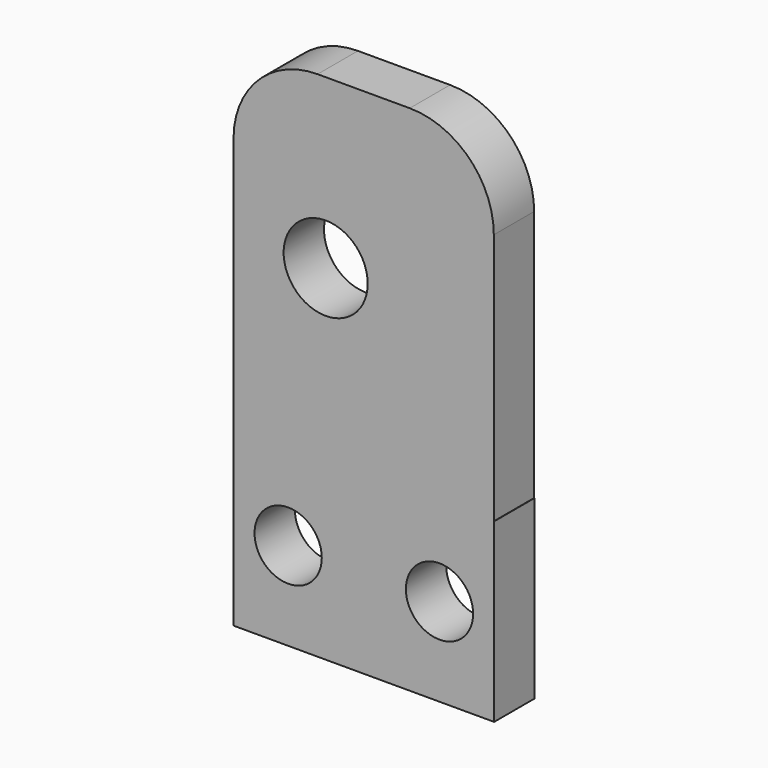
from build123d import *

# Parameters (mm, degrees)
F0_W     = 0.018924
F0_H     = 10.5
F0_R     = 2
F0_R_2   = 2.5
F1_DEPTH = 3


with BuildPart() as f1:
    # F0 (on Front) → F1 (new body)
    with BuildSketch(Plane.XZ):
        with Locations((-26.705362, 43.103301)):
            Rectangle(F0_W, F0_H)
        with BuildLine():
            Line((-26.714824, 37.853301), (-26.714824, 48.353301))
            Line((-26.714824, 48.353301), (-36.544182, 48.353301))
            ThreePointArc((-36.544182, 48.353301), (-40.513356, 46.970414), (-42.1959, 43.118692))
            Line((-42.1959, 43.118692), (-42.1959, 37.853301))
            Line((-42.1959, 37.853301), (-26.714824, 37.853301))
        make_face()
        with Locations((-38.9459, 43.103301)):
            Circle(F0_R, mode=Mode.SUBTRACT)
        with Locations((-29.9459, 43.103301)):
            Circle(F0_R, mode=Mode.SUBTRACT)
        with BuildLine():
            Line((-36.544182, 48.353301), (-26.714824, 48.353301))
            Line((-26.714824, 48.353301), (-26.714824, 63.353301))
            ThreePointArc((-26.714824, 63.353301), (-28.17929, 66.888834), (-31.714824, 68.353301))
            Line((-31.714824, 68.353301), (-37.1959, 68.353301))
            ThreePointArc((-37.1959, 68.353301), (-40.731434, 66.888834), (-42.1959, 63.353301))
            Line((-42.1959, 63.353301), (-42.1959, 43.118692))
            ThreePointArc((-42.1959, 43.118692), (-40.513356, 46.970414), (-36.544182, 48.353301))
        make_face()
        with Locations((-36.714824, 58.353301)):
            Circle(F0_R_2, mode=Mode.SUBTRACT)
    extrude(amount=F1_DEPTH)


solid = f1.part
